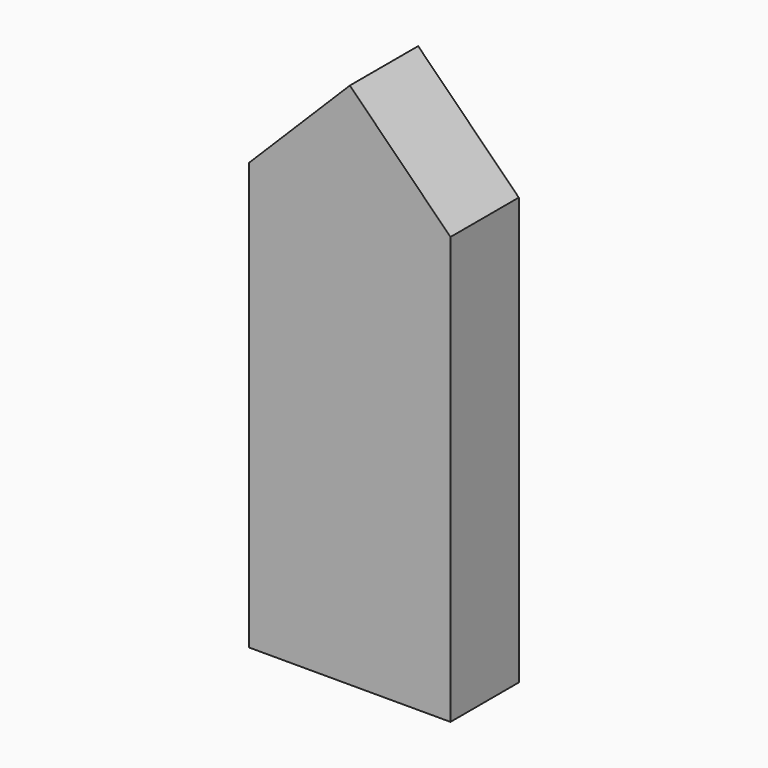
from build123d import *

# Parameters (mm, degrees)
F1_DEPTH = 3


with BuildPart() as f1:
    # F0 (on Front) → F1 (new body)
    with BuildSketch(Plane.XZ):
        Polygon((3.535534, 0), (0, 0), (-3.535534, 0), (-3.535534, -15), (3.535534, -15), align=None)
        Polygon((-3.535534, 0), (0, 0), (3.535534, 0), (0, 3.535534), align=None)
    extrude(amount=F1_DEPTH)


solid = f1.part
